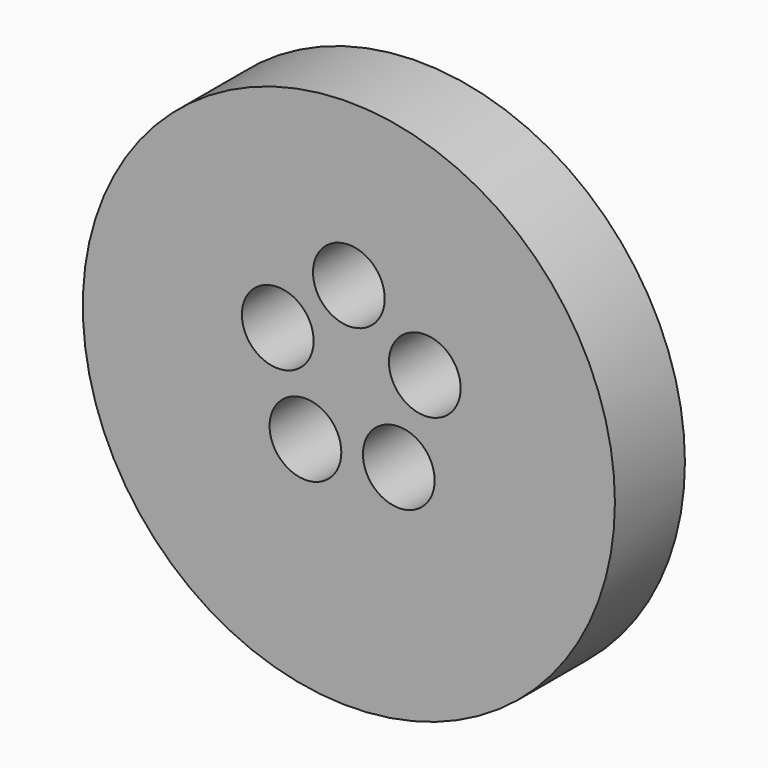
from build123d import *

# Parameters (mm, degrees)
F0_R     = 77.208899
F0_R_2   = 10.409051
F1_DEPTH = 25.4


with BuildPart() as f1:
    # F0 (on Front) → F1 (new body)
    with BuildSketch(Plane.XZ):
        Circle(F0_R)
        with Locations((-12.596351, -13.033185)):
            Circle(F0_R_2, mode=Mode.SUBTRACT)
        with Locations((14.491001, -11.407948)):
            Circle(F0_R_2, mode=Mode.SUBTRACT)
        with Locations((-20.639203, 12.821098)):
            Circle(F0_R_2, mode=Mode.SUBTRACT)
        with Locations((22.034073, 14.596542)):
            Circle(F0_R_2, mode=Mode.SUBTRACT)
        with Locations((0, 30.332839)):
            Circle(F0_R_2, mode=Mode.SUBTRACT)
    extrude(amount=F1_DEPTH)


solid = f1.part
